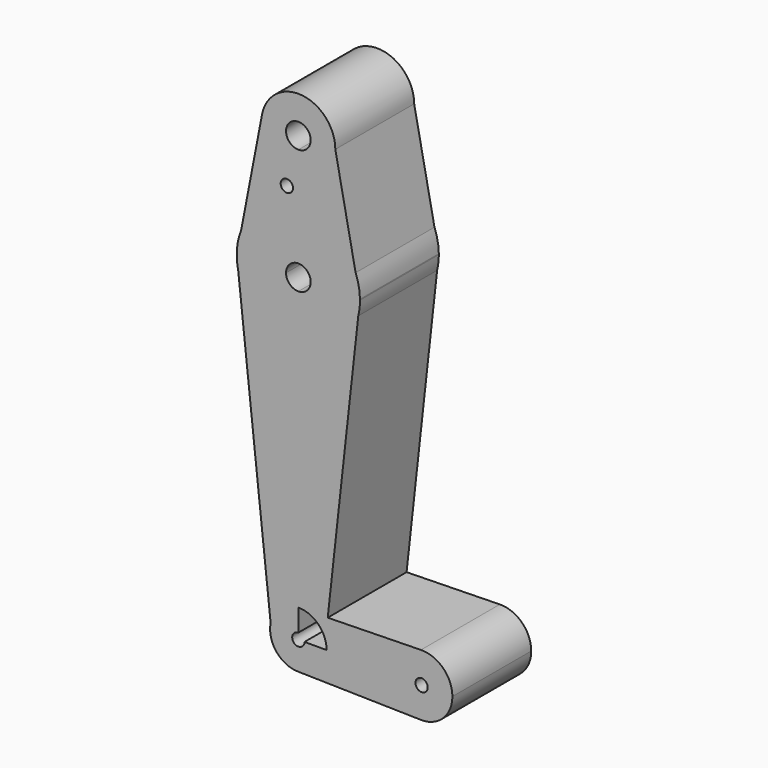
from build123d import *

# Parameters (mm, degrees)
F0_R     = 1.5875
F1_DEPTH = 25.4


with BuildPart() as f1:
    # F0 (on Front) → F1 (new body)
    with BuildSketch(Plane.XZ):
        with BuildLine():
            ThreePointArc((-9.3538984131, 57.0121771742), (-7.3431839589, 49.1483285924), (0, 45.6898988216))
            ThreePointArc((0, 45.6898988216), (6.7351920908, 48.4797067308), (9.525, 55.2148988216))
            ThreePointArc((9.525, 55.2148988216), (0.9027022252, 64.697026942), (-9.3538984131, 57.0121771742))
        make_face()
        with BuildLine():
            ThreePointArc((3.175, 55.2148988216), (2.2450640303, 52.9698347913), (0, 52.0398988216))
            ThreePointArc((0, 52.0398988216), (-2.2450640303, 57.4599628518), (3.175, 55.2148988216))
        make_face(mode=Mode.SUBTRACT)
        with BuildLine():
            ThreePointArc((9.525, 55.2148988216), (6.7351920908, 48.4797067308), (0, 45.6898988216))
            Line((0, 45.6898988216), (0, 38.9482373893))
            ThreePointArc((0, 38.9482373893), (8.9155171966, 36.2082736708), (14.7534666893, 28.9341968371))
            Line((14.7534666893, 28.9341968371), (9.525, 55.2148988216))
        make_face()
        with BuildLine():
            Line((0, 38.9482373893), (0, 45.6898988216))
            ThreePointArc((0, 45.6898988216), (-7.3431839589, 49.1483285924), (-9.3538984131, 57.0121771742))
            Line((-9.3538984131, 57.0121771742), (-14.7445679872, 28.9565476711))
            ThreePointArc((-14.7445679872, 28.9565476711), (-8.9055621461, 36.2150252381), (0, 38.9482373893))
        make_face()
        with Locations((-2.9679005966, 42.8826101124)):
            Circle(F0_R, mode=Mode.SUBTRACT)
        with BuildLine():
            ThreePointArc((14.7534666893, 28.9341968371), (8.9155171966, 36.2082736708), (0, 38.9482373893))
            Line((0, 38.9482373893), (0, 26.2482373893))
            ThreePointArc((0, 26.2482373893), (2.2450640303, 25.3183014196), (3.175, 23.0732373893))
            ThreePointArc((3.175, 23.0732373893), (2.2450640303, 20.8281733591), (0, 19.8982373893))
            Line((0, 19.8982373893), (0, 7.1982373893))
            ThreePointArc((0, 7.1982373893), (9.8295035067, 10.6074247078), (15.4371967833, 19.3707273659))
            Line((15.4371967833, 19.3707273659), (15.8733025562, 23.305381653))
            Line((15.8733025562, 23.305381653), (14.7534666893, 28.9341968371))
        make_face()
        with BuildLine():
            Line((0, 26.2482373893), (0, 38.9482373893))
            ThreePointArc((0, 38.9482373893), (-8.9055621461, 36.2150252381), (-14.7445679872, 28.9565476711))
            Line((-14.7445679872, 28.9565476711), (-15.875, 23.0732373893))
            Line((-15.875, 23.0732373893), (-3.175, 23.0732373893))
            ThreePointArc((-3.175, 23.0732373893), (-2.2450640303, 25.3183014196), (0, 26.2482373893))
        make_face()
        with BuildLine():
            ThreePointArc((15.8733025562, 23.305381653), (15.5698631561, 26.1708148785), (14.7534666893, 28.9341968371))
            Line((14.7534666893, 28.9341968371), (15.8733025562, 23.305381653))
        make_face()
        with BuildLine():
            Line((-15.875, 23.0732373893), (-14.7445679872, 28.9565476711))
            ThreePointArc((-14.7445679872, 28.9565476711), (-15.5898306886, 26.0687013103), (-15.875, 23.0732373893))
        make_face()
        with BuildLine():
            ThreePointArc((0, 19.8982373893), (-2.2450640303, 20.8281733591), (-3.175, 23.0732373893))
            Line((-3.175, 23.0732373893), (-15.875, 23.0732373893))
            Line((-15.875, 23.0732373893), (-15.5078009151, 19.6785745521))
            ThreePointArc((-15.5078009151, 19.6785745521), (-9.9530234718, 10.7058225919), (0, 7.1982373893))
            Line((0, 7.1982373893), (0, 19.8982373893))
        make_face()
        with BuildLine():
            ThreePointArc((15.875, 23.0732373893), (15.8745756334, 23.1893126241), (15.8733025562, 23.305381653))
            Line((15.8733025562, 23.305381653), (15.4371967833, 19.3707273659))
            ThreePointArc((15.4371967833, 19.3707273659), (15.7651692654, 21.2090852945), (15.875, 23.0732373893))
        make_face()
        with BuildLine():
            Line((-15.5078009151, 19.6785745521), (-15.875, 23.0732373893))
            ThreePointArc((-15.875, 23.0732373893), (-15.7829332592, 21.3660049105), (-15.5078009151, 19.6785745521))
        make_face()
        with BuildLine():
            Line((7.5659258775, -51.6458281083), (15.4371967833, 19.3707273659))
            ThreePointArc((15.4371967833, 19.3707273659), (9.8295035067, 10.6074247078), (0, 7.1982373893))
            Line((0, 7.1982373893), (0, -51.8022276335))
            Line((0, -51.8022276335), (7.5659258775, -51.6458281083))
        make_face()
        with BuildLine():
            ThreePointArc((0, 7.1982373893), (-9.9530234718, 10.7058225919), (-15.5078009151, 19.6785745521))
            Line((-15.5078009151, 19.6785745521), (-7.1421089526, -57.660135642))
            ThreePointArc((-7.1421089526, -57.660135642), (-4.6185713843, -53.4540226459), (0, -51.8022276335))
            Line((0, -51.8022276335), (0, 7.1982373893))
        make_face()
        with BuildLine():
            Line((31.585954502, -51.1492965359), (7.5659258775, -51.6458281083))
            Line((7.5659258775, -51.6458281083), (6.9739755001, -56.9865510134))
            ThreePointArc((6.9739755001, -56.9865510134), (7.2052352058, -58.0245198759), (7.2828735449, -59.0851011784))
            Line((7.2828735449, -59.0851011784), (23.8125, -59.0851011784))
            ThreePointArc((23.8125, -59.0851011784), (26.0796376928, -53.5307427497), (31.585954502, -51.1492965359))
        make_face()
        with BuildLine():
            Line((6.9739755001, -56.9865510134), (7.5659258775, -51.6458281083))
            Line((7.5659258775, -51.6458281083), (0, -51.8022276335))
            ThreePointArc((0, -51.8022276335), (4.3449264431, -53.2402862733), (6.9739755001, -56.9865510134))
        make_face()
        with BuildLine():
            ThreePointArc((0, -51.8022276335), (-4.6185713843, -53.4540226459), (-7.1421089526, -57.660135642))
            ThreePointArc((-7.1421089526, -57.660135642), (-5.6310785325, -63.7036725627), (0, -66.3679747233))
            ThreePointArc((0, -66.3679747233), (5.1497692701, -64.2348704485), (7.2828735449, -59.0851011784))
            Line((7.2828735449, -59.0851011784), (1.5875, -59.0851011784))
            ThreePointArc((1.5875, -59.0851011784), (-1.1225320151, -60.2076331936), (0, -57.4976011784))
            Line((0, -57.4976011784), (0, -51.8022276335))
        make_face()
        with BuildLine():
            ThreePointArc((39.6875, -59.0851011784), (37.3043584287, -53.4147388712), (31.585954502, -51.1492965359))
            ThreePointArc((31.585954502, -51.1492965359), (26.0796376928, -53.5307427497), (23.8125, -59.0851011784))
            ThreePointArc((23.8125, -59.0851011784), (26.0796376928, -64.6394596072), (31.585954502, -67.020905821))
            ThreePointArc((31.585954502, -67.020905821), (37.3043584287, -64.7554634857), (39.6875, -59.0851011784))
        make_face()
        with BuildLine():
            ThreePointArc((33.3375, -59.0851011784), (31.75, -60.6726011784), (30.1625, -59.0851011784))
            ThreePointArc((30.1625, -59.0851011784), (31.75, -57.4976011784), (33.3375, -59.0851011784))
        make_face(mode=Mode.SUBTRACT)
        with BuildLine():
            ThreePointArc((7.2828735449, -59.0851011784), (5.1497692701, -64.2348704485), (0, -66.3679747233))
            Line((0, -66.3679747233), (31.585954502, -67.020905821))
            ThreePointArc((31.585954502, -67.020905821), (26.0796376928, -64.6394596072), (23.8125, -59.0851011784))
            Line((23.8125, -59.0851011784), (7.2828735449, -59.0851011784))
        make_face()
    extrude(amount=F1_DEPTH)


solid = f1.part
